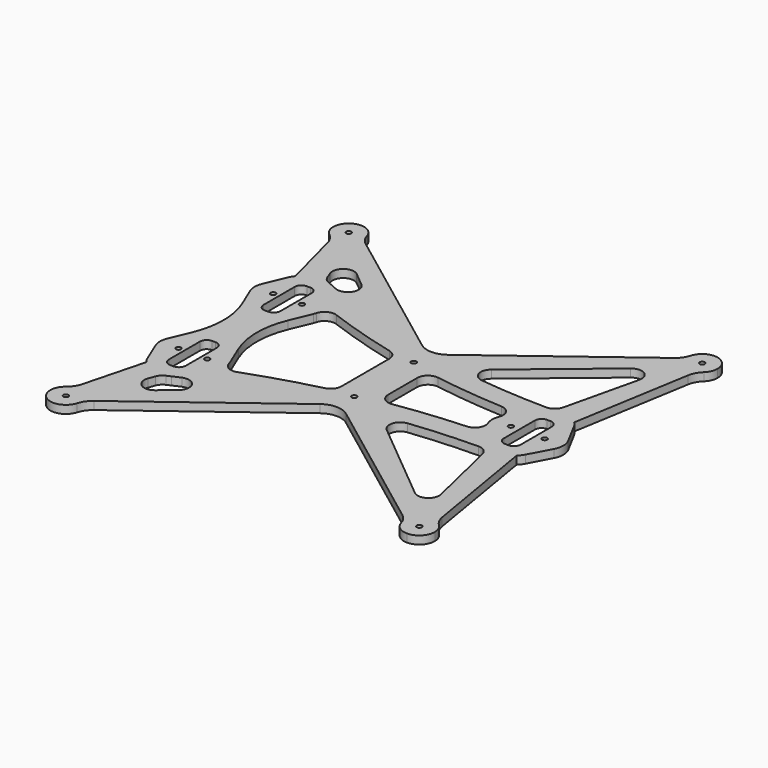
from build123d import *

# Parameters (mm, degrees)
F0_R     = 1.4986
F0_W     = 10.0076
F0_H     = 30.988
F1_DEPTH = 4.7625
F2_R     = 3.9878
F4_DEPTH = 25.4
F5_R     = 6.35
F6_R     = 12.7


with BuildPart() as f1:
    # F0 (on Top) → F1 (new body)
    with BuildSketch(Plane.XY):
        with BuildLine():
            Line((104.4956, 113.6142), (-104.4956, 113.6142))
            ThreePointArc((-104.4956, 113.6142), (-110.943424, 110.943424), (-113.6142, 104.4956))
            Line((-113.6142, 104.4956), (-113.6142, -104.4956))
            ThreePointArc((-113.6142, -104.4956), (-110.943424, -110.943424), (-104.4956, -113.6142))
            Line((-104.4956, -113.6142), (104.4956, -113.6142))
            ThreePointArc((104.4956, -113.6142), (110.943424, -110.943424), (113.6142, -104.4956))
            Line((113.6142, -104.4956), (113.6142, 104.4956))
            ThreePointArc((113.6142, 104.4956), (110.943424, 110.943424), (104.4956, 113.6142))
        make_face()
        with Locations((-104.4956, -104.4956)):
            Circle(F0_R, mode=Mode.SUBTRACT)
        with Locations((-93.4974, -35.0012)):
            Circle(F0_R, mode=Mode.SUBTRACT)
        with Locations((-85.0011, -35.0012)):
            Rectangle(F0_W, F0_H, mode=Mode.SUBTRACT)
        with Locations((-76.5048, -35.0012)):
            Circle(F0_R, mode=Mode.SUBTRACT)
        with Locations((104.4956, -104.4956)):
            Circle(F0_R, mode=Mode.SUBTRACT)
        with Locations((0, -21.9964)):
            Circle(F0_R, mode=Mode.SUBTRACT)
        with Locations((-93.4974, 35.0012)):
            Circle(F0_R, mode=Mode.SUBTRACT)
        with Locations((-85.0011, 35.0012)):
            Rectangle(F0_W, F0_H, mode=Mode.SUBTRACT)
        with Locations((-76.5048, 35.0012)):
            Circle(F0_R, mode=Mode.SUBTRACT)
        with Locations((-104.4956, 104.4956)):
            Circle(F0_R, mode=Mode.SUBTRACT)
        with Locations((0, 21.9964)):
            Circle(F0_R, mode=Mode.SUBTRACT)
        with Locations((75.0062, 0)):
            Circle(F0_R, mode=Mode.SUBTRACT)
        with Locations((85.0011, 0)):
            Rectangle(F0_W, F0_H, mode=Mode.SUBTRACT)
        with Locations((94.996, 0)):
            Circle(F0_R, mode=Mode.SUBTRACT)
        with Locations((104.4956, 104.4956)):
            Circle(F0_R, mode=Mode.SUBTRACT)
    extrude(amount=F1_DEPTH)

    # F2
    f2_edges = [f1.edges().sort_by_distance(p)[0] for p in [
        (-79.9973, 50.4952, 2.38125),
        (-79.9973, -19.5072, 2.38125),
        (90.0049, 15.494, 2.38125),
        (79.9973, 15.494, 2.38125),
        (-90.0049, 50.4952, 2.38125),
        (-90.0049, -19.5072, 2.38125),
        (79.9973, -15.494, 2.38125),
        (-90.0049, -50.4952, 2.38125),
        (-90.0049, 19.5072, 2.38125),
        (-79.9973, -50.4952, 2.38125),
        (-79.9973, 19.5072, 2.38125),
        (90.0049, -15.494, 2.38125),
    ]]
    fillet(f2_edges, radius=F2_R)


with BuildPart() as f4:
    # F3 (on Top) → F4 (new body)
    with BuildSketch(Plane.XY):
        with BuildLine():
            Line((-98.494212, 51.695601), (-103.676097, 39.23368))
            ThreePointArc((-103.676097, 39.23368), (-104.521, 35.0012), (-103.676097, 30.76872))
            Line((-103.676097, 30.76872), (-98.494212, 18.306799))
            ThreePointArc((-98.494212, 18.306799), (-94.839742, 0), (-98.494212, -18.306799))
            Line((-98.494212, -18.306799), (-103.676097, -30.76872))
            ThreePointArc((-103.676097, -30.76872), (-104.521, -35.0012), (-103.676097, -39.23368))
            Line((-103.676097, -39.23368), (-98.494212, -51.695601))
            ThreePointArc((-98.494212, -51.695601), (-97.609151, -53.451471), (-96.478631, -55.060303))
            Line((-96.478631, -55.060303), (-107.133793, -95.76698))
            ThreePointArc((-107.133793, -95.76698), (-109.57774, -112.066644), (-95.418055, -103.631288))
            Line((-95.418055, -103.631288), (-7.629691, -37.659037))
            ThreePointArc((-7.629691, -37.659037), (0, -35.111761), (7.629691, -37.659037))
            Line((7.629691, -37.659037), (95.418055, -103.631288))
            ThreePointArc((95.418055, -103.631288), (109.233289, -112.286824), (107.904862, -96.038308))
            Line((107.904862, -96.038308), (95.352953, -21.275418))
            ThreePointArc((95.352953, -21.275418), (96.777145, -19.680378), (97.93189, -17.880645))
            Line((97.93189, -17.880645), (104.71596, -5.200205))
            ThreePointArc((104.71596, -5.200205), (106.0196, 0), (104.71596, 5.200205))
            Line((104.71596, 5.200205), (97.93189, 17.880645))
            ThreePointArc((97.93189, 17.880645), (96.777145, 19.680378), (95.352953, 21.275418))
            Line((95.352953, 21.275418), (107.904862, 96.038308))
            ThreePointArc((107.904862, 96.038308), (109.233289, 112.286824), (95.418055, 103.631288))
            Line((95.418055, 103.631288), (7.629691, 37.659037))
            ThreePointArc((7.629691, 37.659037), (0, 35.111761), (-7.629691, 37.659037))
            Line((-7.629691, 37.659037), (-95.418055, 103.631288))
            ThreePointArc((-95.418055, 103.631288), (-109.57774, 112.066644), (-107.133793, 95.76698))
            Line((-107.133793, 95.76698), (-96.478631, 55.060303))
            ThreePointArc((-96.478631, 55.060303), (-97.609151, 53.451471), (-98.494212, 51.695601))
        make_face()
        with BuildLine():
            Line((-93.884154, -89.512986), (-83.387341, -61.096307))
            ThreePointArc((-83.387341, -61.096307), (-80.919825, -59.955425), (-78.444317, -58.831989))
            ThreePointArc((-78.444317, -58.831989), (-58.568879, -50.556323), (-38.262066, -43.404188))
            Line((-38.262066, -43.404188), (-93.884154, -89.512986))
        make_face(mode=Mode.SUBTRACT)
        with BuildLine():
            Line((-71.507988, 18.306799), (-66.326103, 30.76872))
            ThreePointArc((-66.326103, 30.76872), (-66.055449, 31.489672), (-65.835789, 32.227761))
            ThreePointArc((-65.835789, 32.227761), (-62.636313, 36.255281), (-57.503646, 36.591882))
            ThreePointArc((-57.503646, 36.591882), (-36.852243, 29.653537), (-15.852003, 23.856035))
            ThreePointArc((-15.852003, 23.856035), (-12.374368, 21.606411), (-11.0236, 17.691033))
            Line((-11.0236, 17.691033), (-11.0236, -17.691033))
            ThreePointArc((-11.0236, -17.691033), (-12.374368, -21.606411), (-15.852003, -23.856035))
            ThreePointArc((-15.852003, -23.856035), (-36.852243, -29.653537), (-57.503646, -36.591882))
            ThreePointArc((-57.503646, -36.591882), (-62.636313, -36.255281), (-65.835789, -32.227761))
            ThreePointArc((-65.835789, -32.227761), (-66.055449, -31.489672), (-66.326103, -30.76872))
            Line((-66.326103, -30.76872), (-71.507988, -18.306799))
            ThreePointArc((-71.507988, -18.306799), (-75.162458, 0), (-71.507988, 18.306799))
        make_face(mode=Mode.SUBTRACT)
        with BuildLine():
            ThreePointArc((21.342663, -29.378585), (51.05322, -26.015895), (80.935105, -24.968148))
            Line((80.935105, -24.968148), (96.6187, -91.779831))
            Line((96.6187, -91.779831), (21.342663, -29.378585))
        make_face(mode=Mode.SUBTRACT)
        with BuildLine():
            ThreePointArc((59.194505, 12.782899), (64.216841, 9.867757), (64.768196, 4.086934))
            ThreePointArc((64.768196, 4.086934), (63.9826, 0), (64.768196, -4.086934))
            ThreePointArc((64.768196, -4.086934), (64.216841, -9.867757), (59.194505, -12.782899))
            ThreePointArc((59.194505, -12.782899), (38.717595, -14.359129), (18.349308, -16.989965))
            ThreePointArc((18.349308, -16.989965), (13.242816, -15.538146), (11.0236, -10.715374))
            Line((11.0236, -10.715374), (11.0236, 10.715374))
            ThreePointArc((11.0236, 10.715374), (13.242816, 15.538146), (18.349308, 16.989965))
            ThreePointArc((18.349308, 16.989965), (38.717595, 14.359129), (59.194505, 12.782899))
        make_face(mode=Mode.SUBTRACT)
        with BuildLine():
            ThreePointArc((-38.262066, 43.404188), (-61.103294, 51.539678), (-83.387341, 61.096307))
            Line((-83.387341, 61.096307), (-93.884154, 89.512986))
            Line((-93.884154, 89.512986), (-38.262066, 43.404188))
        make_face(mode=Mode.SUBTRACT)
        with BuildLine():
            ThreePointArc((80.935105, 24.968148), (51.05322, 26.015895), (21.342663, 29.378585))
            Line((21.342663, 29.378585), (96.6187, 91.779831))
            Line((96.6187, 91.779831), (80.935105, 24.968148))
        make_face(mode=Mode.SUBTRACT)
    extrude(amount=F4_DEPTH)

    # F5
    f5_edges = [f4.edges().sort_by_distance(p)[0] for p in [
        (80.935105, -24.968148, 12.7),
        (96.6187, 91.779831, 12.7),
        (-93.884154, 89.512986, 12.7),
        (-83.387341, -61.096307, 12.7),
        (21.342663, -29.378585, 12.7),
        (96.6187, -91.779831, 12.7),
        (-93.884154, -89.512986, 12.7),
        (-38.262066, -43.404188, 12.7),
        (80.935105, 24.968148, 12.7),
        (-38.262066, 43.404188, 12.7),
        (-83.387341, 61.096307, 12.7),
        (21.342663, 29.378585, 12.7),
    ]]
    fillet(f5_edges, radius=F5_R)

    # F6
    f6_edges = [f4.edges().sort_by_distance(p)[0] for p in [
        (-95.418055, 103.631288, 12.7),
        (95.418055, 103.631288, 12.7),
        (-107.133793, -95.76698, 12.7),
        (-107.133793, 95.76698, 12.7),
        (95.418055, -103.631288, 12.7),
        (-95.418055, -103.631288, 12.7),
        (107.904862, -96.038308, 12.7),
        (107.904862, 96.038308, 12.7),
    ]]
    fillet(f6_edges, radius=F6_R)

    # F7: intersect F1
    add(f1.part, mode=Mode.INTERSECT)


solid = f4.part
